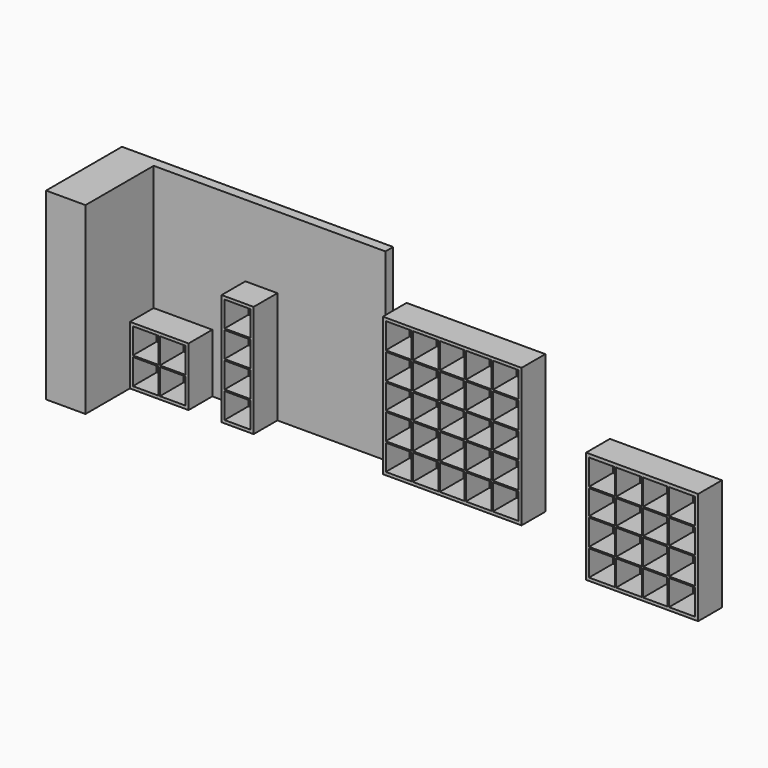
from build123d import *

# Parameters (mm, degrees)
F1_W      = 517.234564
F1_H      = 2413
F2_DEPTH  = 1117.6
F5_DEPTH  = 127
F6_W      = 770
F6_H      = 770
F6_W_2    = 337
F6_H_2    = 337
F7_DEPTH  = 390
F8_W      = 420
F8_H      = 1470
F8_W_2    = 342
F8_H_2    = 334.5
F9_DEPTH  = 390
F10_W     = 1820
F10_H     = 1820
F10_W_2   = 337
F10_H_2   = 337
F10_W_3   = 322
F10_H_3   = 322
F11_DEPTH = 390
F12_W     = 1470
F12_H     = 1470
F12_W_2   = 337
F12_H_2   = 337
F12_W_3   = 322
F12_H_3   = 322
F13_DEPTH = 390


with BuildPart() as f2:
    # F1 (on Front) → F2 (new body)
    with BuildSketch(Plane.XZ):
        with Locations((-258.617282, 1206.5)):
            Rectangle(F1_W, F1_H)
    extrude(amount=F2_DEPTH)

    # F4 (on face) → F5 (join)
    with BuildSketch(Plane.XZ):
        Polygon((3041.009665, 0), (3041.009665, 2413), (2806.7, 2413), (0, 2413), (-517.234564, 2413), (-517.234564, 0), (0, 0), (2806.7, 0), align=None)
    extrude(amount=-F5_DEPTH)


with BuildPart() as f7:
    # F6 (on face) → F7 (new body)
    with BuildSketch(Plane.XZ):
        with Locations((385, 385)):
            Rectangle(F6_W, F6_H)
        with Locations((207.5, 207.5)):
            Rectangle(F6_W_2, F6_H_2, mode=Mode.SUBTRACT)
        with Locations((562.5, 207.5)):
            Rectangle(F6_W_2, F6_H_2, mode=Mode.SUBTRACT)
        with Locations((207.5, 562.5)):
            Rectangle(F6_W_2, F6_H_2, mode=Mode.SUBTRACT)
        with Locations((562.5, 562.5)):
            Rectangle(F6_W_2, F6_H_2, mode=Mode.SUBTRACT)
    extrude(amount=F7_DEPTH)


with BuildPart() as f9:
    # F8 (on face) → F9 (new body)
    with BuildSketch(Plane.XZ):
        with Locations((1413.535591, 735)):
            Rectangle(F8_W, F8_H)
        with Locations((1413.535591, 206.25)):
            Rectangle(F8_W_2, F8_H_2, mode=Mode.SUBTRACT)
        with Locations((1413.535591, 558.75)):
            Rectangle(F8_W_2, F8_H_2, mode=Mode.SUBTRACT)
        with Locations((1413.535591, 911.25)):
            Rectangle(F8_W_2, F8_H_2, mode=Mode.SUBTRACT)
        with Locations((1413.535591, 1263.75)):
            Rectangle(F8_W_2, F8_H_2, mode=Mode.SUBTRACT)
    extrude(amount=F9_DEPTH)


with BuildPart() as f11:
    # F10 (on face) → F11 (new body)
    with BuildSketch(Plane.XZ):
        with Locations((4228.635464, 998.912597)):
            Rectangle(F10_W, F10_H)
        with Locations((3526.135464, 296.412597)):
            Rectangle(F10_W_2, F10_H_2, mode=Mode.SUBTRACT)
        with Locations((3881.135464, 296.412597)):
            Rectangle(F10_W_2, F10_H_2, mode=Mode.SUBTRACT)
        with Locations((4228.635464, 296.412597)):
            Rectangle(F10_W_3, F10_H_2, mode=Mode.SUBTRACT)
        with Locations((3526.135464, 651.412597)):
            Rectangle(F10_W_2, F10_H_2, mode=Mode.SUBTRACT)
        with Locations((3881.135464, 651.412597)):
            Rectangle(F10_W_2, F10_H_2, mode=Mode.SUBTRACT)
        with Locations((4228.635464, 651.412597)):
            Rectangle(F10_W_3, F10_H_2, mode=Mode.SUBTRACT)
        with Locations((4576.135464, 296.412597)):
            Rectangle(F10_W_2, F10_H_2, mode=Mode.SUBTRACT)
        with Locations((4931.135464, 296.412597)):
            Rectangle(F10_W_2, F10_H_2, mode=Mode.SUBTRACT)
        with Locations((4576.135464, 651.412597)):
            Rectangle(F10_W_2, F10_H_2, mode=Mode.SUBTRACT)
        with Locations((4931.135464, 651.412597)):
            Rectangle(F10_W_2, F10_H_2, mode=Mode.SUBTRACT)
        with Locations((3526.135464, 998.912597)):
            Rectangle(F10_W_2, F10_H_3, mode=Mode.SUBTRACT)
        with Locations((3526.135464, 1346.412597)):
            Rectangle(F10_W_2, F10_H_2, mode=Mode.SUBTRACT)
        with Locations((3881.135464, 998.912597)):
            Rectangle(F10_W_2, F10_H_3, mode=Mode.SUBTRACT)
        with Locations((4228.635464, 998.912597)):
            Rectangle(F10_W_3, F10_H_3, mode=Mode.SUBTRACT)
        with Locations((3881.135464, 1346.412597)):
            Rectangle(F10_W_2, F10_H_2, mode=Mode.SUBTRACT)
        with Locations((4228.635464, 1346.412597)):
            Rectangle(F10_W_3, F10_H_2, mode=Mode.SUBTRACT)
        with Locations((3526.135464, 1701.412597)):
            Rectangle(F10_W_2, F10_H_2, mode=Mode.SUBTRACT)
        with Locations((3881.135464, 1701.412597)):
            Rectangle(F10_W_2, F10_H_2, mode=Mode.SUBTRACT)
        with Locations((4228.635464, 1701.412597)):
            Rectangle(F10_W_3, F10_H_2, mode=Mode.SUBTRACT)
        with Locations((4576.135464, 998.912597)):
            Rectangle(F10_W_2, F10_H_3, mode=Mode.SUBTRACT)
        with Locations((4576.135464, 1346.412597)):
            Rectangle(F10_W_2, F10_H_2, mode=Mode.SUBTRACT)
        with Locations((4931.135464, 998.912597)):
            Rectangle(F10_W_2, F10_H_3, mode=Mode.SUBTRACT)
        with Locations((4931.135464, 1346.412597)):
            Rectangle(F10_W_2, F10_H_2, mode=Mode.SUBTRACT)
        with Locations((4576.135464, 1701.412597)):
            Rectangle(F10_W_2, F10_H_2, mode=Mode.SUBTRACT)
        with Locations((4931.135464, 1701.412597)):
            Rectangle(F10_W_2, F10_H_2, mode=Mode.SUBTRACT)
    extrude(amount=F11_DEPTH)


with BuildPart() as f13:
    # F12 (on face) → F13 (new body)
    with BuildSketch(Plane.XZ):
        with Locations((6720.633533, 470.616514)):
            Rectangle(F12_W, F12_H)
        with Locations((6193.133533, -56.883486)):
            Rectangle(F12_W_2, F12_H_2, mode=Mode.SUBTRACT)
        with Locations((6548.133533, -56.883486)):
            Rectangle(F12_W_2, F12_H_2, mode=Mode.SUBTRACT)
        with Locations((6193.133533, 298.116514)):
            Rectangle(F12_W_2, F12_H_2, mode=Mode.SUBTRACT)
        with Locations((6548.133533, 298.116514)):
            Rectangle(F12_W_2, F12_H_2, mode=Mode.SUBTRACT)
        with Locations((6895.633533, -56.883486)):
            Rectangle(F12_W_3, F12_H_2, mode=Mode.SUBTRACT)
        with Locations((7243.133533, -56.883486)):
            Rectangle(F12_W_2, F12_H_2, mode=Mode.SUBTRACT)
        with Locations((6895.633533, 298.116514)):
            Rectangle(F12_W_3, F12_H_2, mode=Mode.SUBTRACT)
        with Locations((7243.133533, 298.116514)):
            Rectangle(F12_W_2, F12_H_2, mode=Mode.SUBTRACT)
        with Locations((6193.133533, 645.616514)):
            Rectangle(F12_W_2, F12_H_3, mode=Mode.SUBTRACT)
        with Locations((6548.133533, 645.616514)):
            Rectangle(F12_W_2, F12_H_3, mode=Mode.SUBTRACT)
        with Locations((6193.133533, 993.116514)):
            Rectangle(F12_W_2, F12_H_2, mode=Mode.SUBTRACT)
        with Locations((6548.133533, 993.116514)):
            Rectangle(F12_W_2, F12_H_2, mode=Mode.SUBTRACT)
        with Locations((6895.633533, 645.616514)):
            Rectangle(F12_W_3, F12_H_3, mode=Mode.SUBTRACT)
        with Locations((7243.133533, 645.616514)):
            Rectangle(F12_W_2, F12_H_3, mode=Mode.SUBTRACT)
        with Locations((6895.633533, 993.116514)):
            Rectangle(F12_W_3, F12_H_2, mode=Mode.SUBTRACT)
        with Locations((7243.133533, 993.116514)):
            Rectangle(F12_W_2, F12_H_2, mode=Mode.SUBTRACT)
    extrude(amount=F13_DEPTH)


solid = Compound([f2.part, f7.part, f9.part, f11.part, f13.part])
